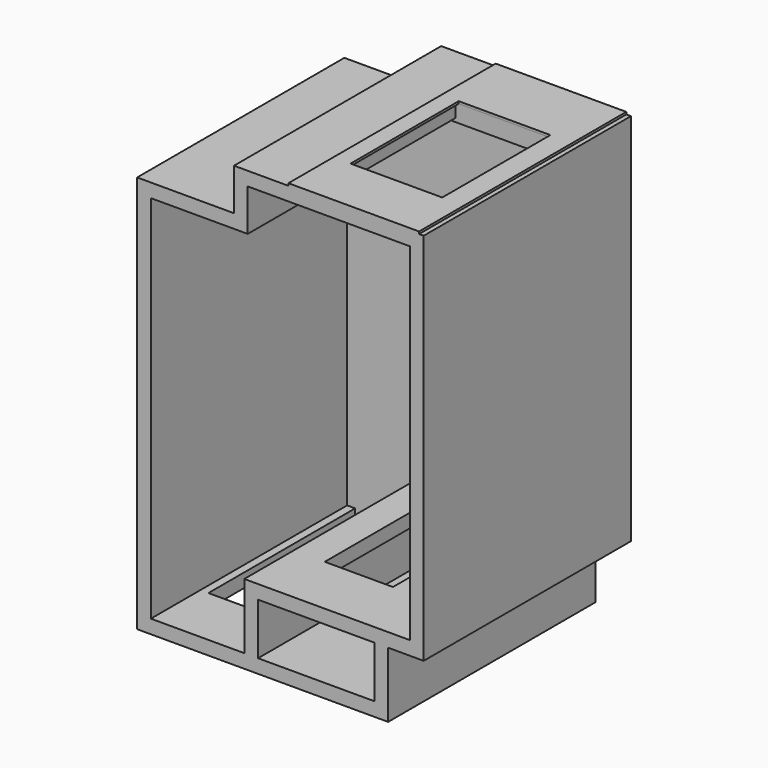
from build123d import *

# Parameters (mm, degrees)
F0_W      = 38.1
F0_H      = 152.4
F1_DEPTH  = 2717.8
F0_W_2    = 882.65
F0_W_3    = 755.65
F2_DEPTH  = 2717.8
F3_DEPTH  = 2032
F4_DEPTH  = 152.4
F0_W_4    = 1092.2
F5_DEPTH  = 546.1
F5_FACE_W = 1092.2
F5_FACE_H = 152.4
F6_DEPTH  = 152.4
F7_W      = 1016
F7_H      = 1498.6
F8_DEPTH  = 25.4
F9_W      = 1092.2
F9_H      = 152.4
F10_DEPTH = 50.8
F11_DEPTH = 50.8
F12_W     = 635
F12_H     = 152.4
F13_DEPTH = 1092.2


with BuildPart() as f1:
    # F0 (on Front) → F1 (new body)
    with BuildSketch(Plane.XZ):
        Polygon((88.9, 0), (0, 0), (0, 4102.1), (1073.15, 4102.1), (1073.15, 4565.65), (1676.4, 4565.65), (1676.4, 4718.05), (2768.6, 4718.05), (2768.6, 4565.65), (2870.2, 4565.65), (2870.2, 723.9), (2133.6, 723.9), (2133.6, 571.5), (2476.5, 571.5), (2476.5, 0), (1187.45, 0), (1187.45, 571.5), (1339.85, 571.5), (1339.85, 723.9), (1035.05, 723.9), (1035.05, 0), (971.55, 0), (971.55, -152.4), (2628.9, -152.4), (2628.9, 571.5), (3022.6, 571.5), (3022.6, 4718.05), (2971.8, 4718.05), (2971.8, 4743.45), (1524, 4743.45), (1524, 4718.05), (920.75, 4718.05), (920.75, 4254.5), (-152.4, 4254.5), (-152.4, -152.4), (88.9, -152.4), align=None)
        with Locations((1358.9, 647.7)):
            Rectangle(F0_W, F0_H)
    extrude(amount=F1_DEPTH)

    # F0 (on Front) → F2 (join)
    with BuildSketch(Plane.XZ):
        with Locations((530.225, -76.2)):
            Rectangle(F0_W_2, F0_H)
        with Locations((1755.775, 647.7)):
            Rectangle(F0_W_3, F0_H)
    extrude(amount=F2_DEPTH)

    # F0 (on Front) → F3 (cut)
    with BuildSketch(Plane.XZ):
        with Locations((1755.775, 647.7)):
            Rectangle(F0_W_3, F0_H)
        with Locations((530.225, -76.2)):
            Rectangle(F0_W_2, F0_H)
    extrude(amount=F3_DEPTH, mode=Mode.SUBTRACT)

    # F0 (on Front) → F4 (join)
    with BuildSketch(Plane.XZ):
        Polygon((0, 4102.1), (0, 0), (88.9, 0), (971.55, 0), (1035.05, 0), (1035.05, 723.9), (1339.85, 723.9), (1377.95, 723.9), (2133.6, 723.9), (2870.2, 723.9), (2870.2, 4565.65), (2768.6, 4565.65), (1676.4, 4565.65), (1073.15, 4565.65), (1073.15, 4102.1), align=None)
        Polygon((88.9, 0), (0, 0), (0, 4102.1), (1073.15, 4102.1), (1073.15, 4565.65), (1676.4, 4565.65), (1676.4, 4718.05), (2768.6, 4718.05), (2768.6, 4565.65), (2870.2, 4565.65), (2870.2, 723.9), (2133.6, 723.9), (2133.6, 571.5), (2476.5, 571.5), (2476.5, 0), (1187.45, 0), (1187.45, 571.5), (1339.85, 571.5), (1339.85, 723.9), (1035.05, 723.9), (1035.05, 0), (971.55, 0), (971.55, -152.4), (2628.9, -152.4), (2628.9, 571.5), (3022.6, 571.5), (3022.6, 4718.05), (2971.8, 4718.05), (2971.8, 4743.45), (1524, 4743.45), (1524, 4718.05), (920.75, 4718.05), (920.75, 4254.5), (-152.4, 4254.5), (-152.4, -152.4), (88.9, -152.4), align=None)
        Polygon((1377.95, 571.5), (1339.85, 571.5), (1187.45, 571.5), (1187.45, 0), (2476.5, 0), (2476.5, 571.5), (2133.6, 571.5), align=None)
        with Locations((1755.775, 647.7)):
            Rectangle(F0_W_3, F0_H)
        with Locations((1358.9, 647.7)):
            Rectangle(F0_W, F0_H)
        with Locations((530.225, -76.2)):
            Rectangle(F0_W_2, F0_H)
    extrude(amount=-F4_DEPTH)

    # F7 (on face) → F8 (cut, through all)
    with BuildSketch(Plane(origin=(0, 0, 4718.05), x_dir=(1, 0, 0), z_dir=(0, 0, -1))):
        with Locations((2222.5, 1346.2)):
            Rectangle(F7_W, F7_H)
    extrude(amount=-F8_DEPTH, mode=Mode.SUBTRACT)

    # F12 (on face) → F13 (join)
    with BuildSketch(Plane.YZ.offset(1676.4)):
        with Locations((-2400.3, 4641.85)):
            Rectangle(F12_W, F12_H)
    extrude(amount=F13_DEPTH)


with BuildPart() as f5:
    # F0 (on Front) → F5 (new body)
    with BuildSketch(Plane.XZ):
        with Locations((2222.5, 4641.85)):
            Rectangle(F0_W_4, F0_H)
    extrude(amount=F5_DEPTH)


with BuildPart() as f6:
    # F5_face (on face) → F6 (new body)
    with BuildSketch(Plane(origin=(2222.5, 0, 4641.85), x_dir=(1, 0, 0), z_dir=(0, 1, 0))):
        Rectangle(F5_FACE_W, F5_FACE_H)
    extrude(amount=F6_DEPTH)


with BuildPart() as f10:
    # F9 (on face) → F10 (new body)
    with BuildSketch(Plane.XZ.offset(546.1)):
        with Locations((2222.5, 4641.85)):
            Rectangle(F9_W, F9_H)
        Polygon((2806.7, 4565.65), (2768.6, 4565.65), (1676.4, 4565.65), (1638.3, 4565.65), (1638.3, 4527.55), (2806.7, 4527.55), align=None)
    extrude(amount=F10_DEPTH)


with BuildPart() as f11:
    # F9 (on face) → F11 (new body)
    with BuildSketch(Plane.XZ.offset(546.1)):
        Polygon((2806.7, 4565.65), (2768.6, 4565.65), (1676.4, 4565.65), (1638.3, 4565.65), (1638.3, 4527.55), (2806.7, 4527.55), align=None)
    extrude(amount=-F11_DEPTH)


solid = Compound([f1.part, f5.part, f6.part, f10.part, f11.part])
